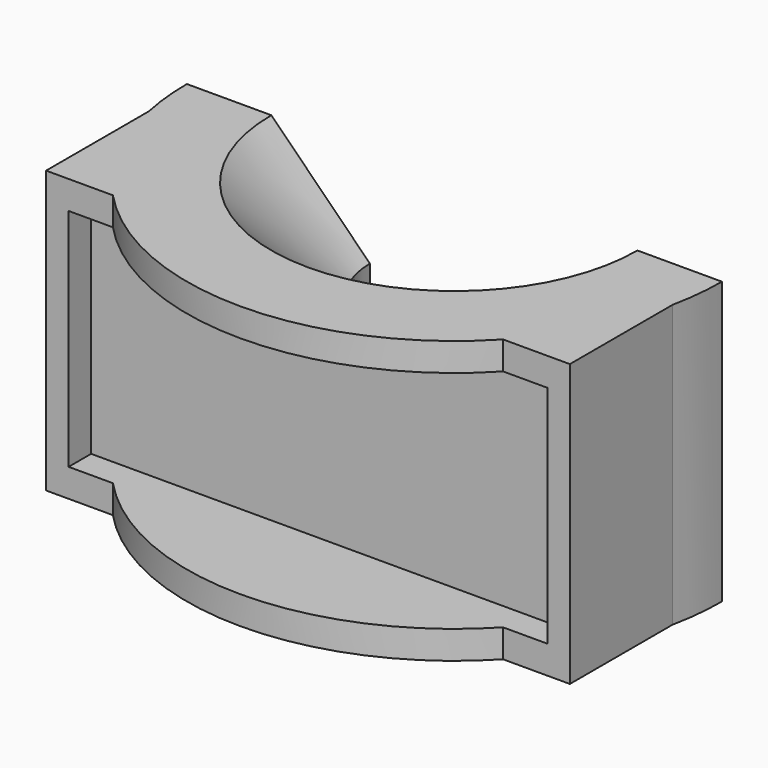
from build123d import *

# Parameters (mm, degrees)
SKETCH006_AS_DRAWN_W                 = 85
SKETCH006_AS_DRAWN_H                 = 40
EXTRUDE002_DEPTH                     = 80
EXTRUDE002_ONTO_SKETCH006_ROLL_ANGLE = 90
SKETCH005_R                          = 39.095168
EXTRUDE001_DEPTH                     = 60
EXTRUDE_DEPTH                        = 5
SKETCH004_W                          = 93
SKETCH004_H                          = 50
PAD_DEPTH                            = 20
REVOLUTION_ANGLE                     = -180


with BuildPart() as extrude002:
    # Sketch006 as drawn → Extrude002 (new)
    with BuildSketch(Plane.XY):
        with Locations((0, 25)):
            Rectangle(SKETCH006_AS_DRAWN_W, SKETCH006_AS_DRAWN_H)
    extrude(amount=EXTRUDE002_DEPTH)


with BuildPart() as extrude002_1:
    # Extrude002 onto Sketch006 roll: moved
    add(extrude002.part.rotate(Axis((0, 0, 0), (1, 0, 0)), EXTRUDE002_ONTO_SKETCH006_ROLL_ANGLE))


with BuildPart() as extrude002_2:
    # Extrude002 onto Sketch006 placement: moved
    add(extrude002_1.part.moved(Location((0, -27.5, 0))))


with BuildPart() as extrude001:
    # Sketch005 → Extrude001 (new body)
    with BuildSketch(Plane(origin=(0, 0, 0), x_dir=(1, 0, 0), z_dir=(0, 0, -1))):
        Circle(SKETCH005_R)
    extrude(amount=-EXTRUDE001_DEPTH)


with BuildPart() as cut:
    # Sketch003 → Extrude (new body)
    with BuildSketch(Plane(origin=(-42.5, -27.5, 45), x_dir=(0, 0, 1), z_dir=(0, 1, 0))):
        Polygon((0, 64), (5, 64), (5, 89), (-45, 89), (-45, 64), (-40, 64), (-40, 85), (0, 85), align=None)
        Polygon((0, 21), (5, 21), (5, -4), (-45, -4), (-45, 21), (-40, 21), (-40, 0), (0, 0), align=None)
    extrude(amount=-EXTRUDE_DEPTH)

    # Sketch004 → Pad (new body)
    with BuildSketch(Plane(origin=(0, -27.5, 0), x_dir=(-1, 0, 0), z_dir=(0, 1, 0))):
        with Locations((0, 25)):
            Rectangle(SKETCH004_W, SKETCH004_H)
    extrude(amount=PAD_DEPTH)

    # Cut: cut Extrude001
    add(extrude001.part, mode=Mode.SUBTRACT)


with BuildPart() as cut001:
    # Sketch → Revolution (revolve)
    with BuildSketch(Plane.XZ):
        Polygon((32.5, 50), (15, 32.5), (15, 17.5), (32.5, 0), (47.5, 0), (47.5, 50), align=None)
    revolve(axis=Axis((0, 0, 0), (0, 0, 1)), revolution_arc=REVOLUTION_ANGLE)

    # Fusion: union Cut
    add(cut.part)

    # Cut001: cut Extrude002
    add(extrude002_2.part, mode=Mode.SUBTRACT)


solid = cut001.part
